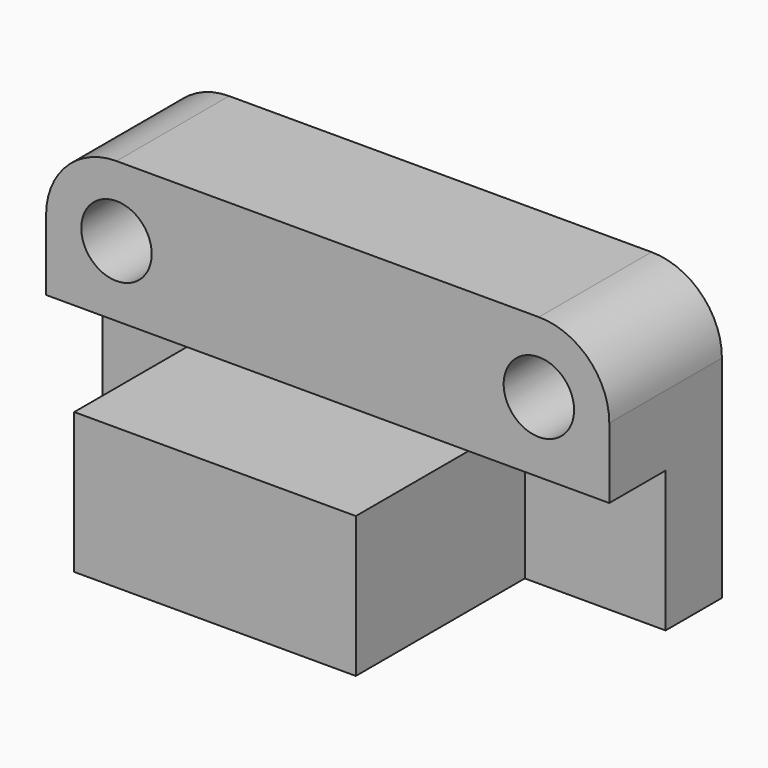
from build123d import *

# Parameters (mm, degrees)
F0_W     = 203.2
F0_H     = 101.6
F1_DEPTH = 101.6
F2_W     = 50.8
F2_H     = 50.8
F3_DEPTH = 76.2
F5_DEPTH = 50.8
F6_R     = 25.4
F7_R     = 12.7
F8_DEPTH = 38.1


with BuildPart() as f1:
    # F0 (on Front) → F1 (new body)
    with BuildSketch(Plane.XZ):
        with Locations((101.6, 50.8)):
            Rectangle(F0_W, F0_H)
    extrude(amount=F1_DEPTH)

    # F2 (on face) → F3 (cut)
    with BuildSketch(Plane.XZ.offset(101.6)):
        with Locations((25.4, 25.4)):
            Rectangle(F2_W, F2_H)
        with Locations((177.8, 25.4)):
            Rectangle(F2_W, F2_H)
    extrude(amount=-F3_DEPTH, mode=Mode.SUBTRACT)

    # F4 (on face) → F5 (cut)
    with BuildSketch(Plane.XZ.offset(101.6)):
        Polygon((0, 50.8), (50.8, 50.8), (152.4, 50.8), (203.2, 50.8), (203.2, 101.6), (0, 101.6), align=None)
    extrude(amount=-F5_DEPTH, mode=Mode.SUBTRACT)

    # F6
    f6_edges = [f1.edges().sort_by_distance(p)[0] for p in [
        (203.2, -25.4, 101.6),
        (0, -25.4, 101.6),
    ]]
    fillet(f6_edges, radius=F6_R)

    # F7 (on face) → F8 (cut)
    with BuildSketch(Plane.XZ.offset(50.8)):
        with Locations((25.4, 76.2)):
            Circle(F7_R)
        with Locations((177.8, 76.2)):
            Circle(F7_R)
    extrude(amount=-F8_DEPTH, mode=Mode.SUBTRACT)


solid = f1.part
